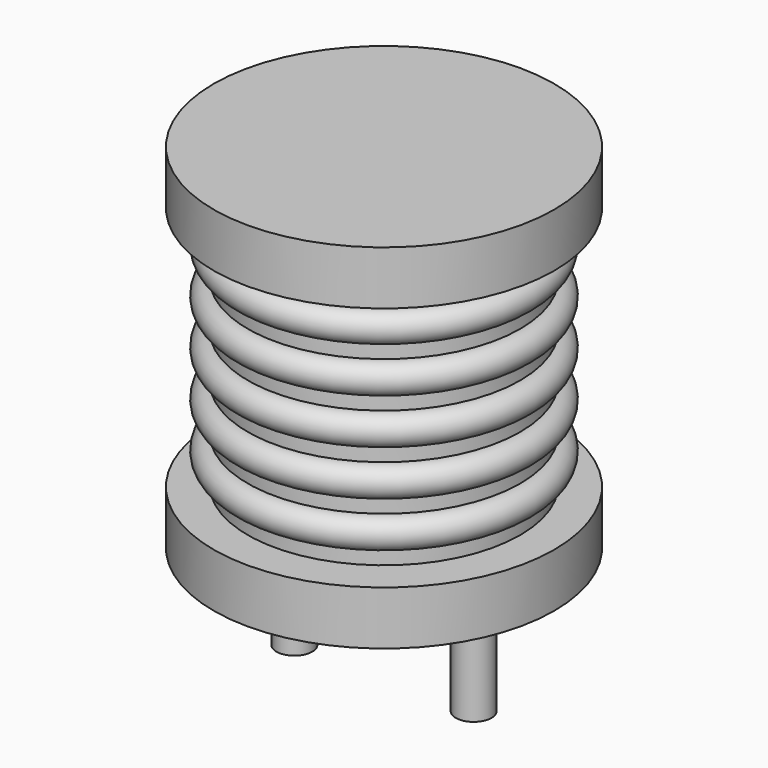
from build123d import *

# Parameters (mm, degrees)
SKETCH001_R  = 0.5
PAD001_DEPTH = 3.5


with BuildPart() as pad001:
    # Sketch001 → Pad001 (new body)
    with BuildSketch(Plane.XY.offset(0.5)):
        Circle(SKETCH001_R)
        with Locations((5, 0)):
            Circle(SKETCH001_R)
    extrude(amount=-PAD001_DEPTH)


with BuildPart() as revolution:
    # Sketch → Revolution (revolve)
    with BuildSketch(Plane(origin=(2.5, 0, 0), x_dir=(1, 0, 0), z_dir=(0, -1, 0))):
        Polygon((0, 0.05), (1.5, 0.05), (1.5, 0.2), (4.75, 0.2), (4.75, 1.7), (0.95, 1.7), (0.95, 8.55), (4.75, 8.55), (4.75, 10.05), (0, 10.05), align=None)
    revolve(axis=Axis((2.5, 0, 0), (0, 0, 1)))


with BuildPart() as revolution001:
    # Sketch002 → Revolution001 (revolve)
    with BuildSketch(Plane(origin=(2.5, 0, 0), x_dir=(1, 0, 0), z_dir=(0, -1, 0))):
        with BuildLine():
            Line((3.8, 1.75), (0.95, 1.75))
            Line((0.95, 1.75), (0.95, 8.5))
            Line((0.95, 8.5), (3.8, 8.5))
            Line((3.8, 8.5), (3.8, 8.078125))
            ThreePointArc((3.8, 7.234375), (4.221875, 7.65625), (3.8, 8.078125))
            Line((3.8, 7.234375), (3.8, 6.8125))
            ThreePointArc((3.8, 5.96875), (4.221875, 6.390625), (3.8, 6.8125))
            Line((3.8, 5.96875), (3.8, 5.546875))
            ThreePointArc((3.8, 4.703125), (4.221875, 5.125), (3.8, 5.546875))
            Line((3.8, 4.703125), (3.8, 4.28125))
            ThreePointArc((3.8, 3.4375), (4.221875, 3.859375), (3.8, 4.28125))
            Line((3.8, 3.4375), (3.8, 3.015625))
            ThreePointArc((3.8, 2.171875), (4.221875, 2.59375), (3.8, 3.015625))
            Line((3.8, 1.75), (3.8, 2.171875))
        make_face()
    revolve(axis=Axis((2.5, 0, 0), (0, 0, 1)))


solid = Compound([pad001.part, revolution.part, revolution001.part])
